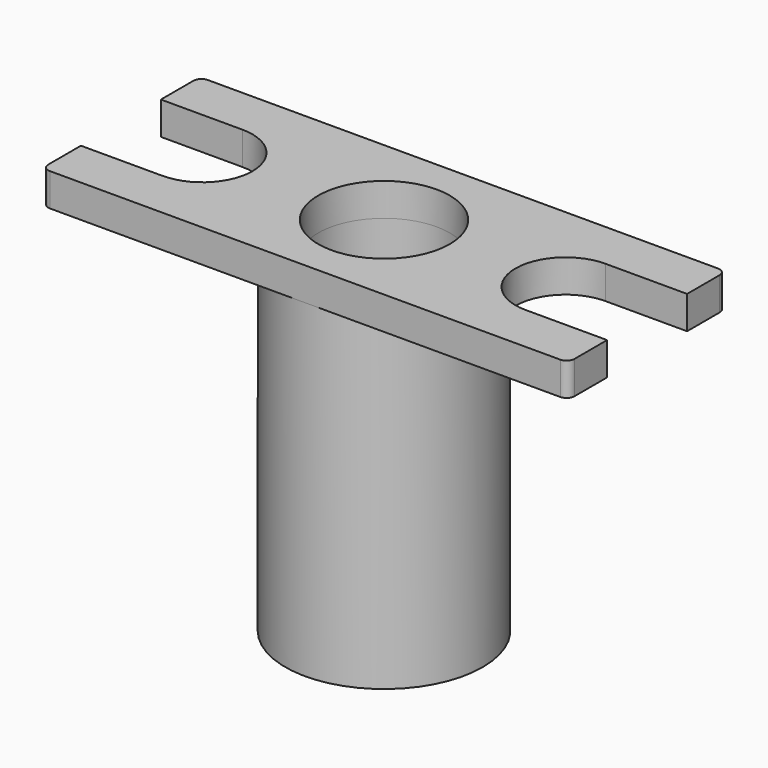
from build123d import *

# Parameters (mm, degrees)
F0_R     = 12.7
F1_DEPTH = 6.35
F2_R     = 19.05
F2_R_2   = 12.7
F3_DEPTH = 57.15
F4_R     = 19.05
F4_R_2   = 4.7625
F5_DEPTH = 6.35
F6_R     = 1.524


with BuildPart() as f1:
    # F0 (on Top) → F1 (new body)
    with BuildSketch(Plane.XY):
        with BuildLine():
            Line((-50.8, -9.652), (-50.8, -19.05))
            Line((-50.8, -19.05), (50.8, -19.05))
            Line((50.8, -19.05), (50.8, -9.652))
            Line((50.8, -9.652), (35.052, -9.652))
            ThreePointArc((35.052, -9.652), (25.4, 0), (35.052, 9.652))
            Line((35.052, 9.652), (50.8, 9.652))
            Line((50.8, 9.652), (50.8, 19.05))
            Line((50.8, 19.05), (-50.8, 19.05))
            Line((-50.8, 19.05), (-50.8, 9.652))
            Line((-50.8, 9.652), (-35.052, 9.652))
            ThreePointArc((-35.052, 9.652), (-25.4, 0), (-35.052, -9.652))
            Line((-35.052, -9.652), (-50.8, -9.652))
        make_face()
        Circle(F0_R, mode=Mode.SUBTRACT)
    extrude(amount=-F1_DEPTH)

    # F2 (on face) → F3 (join)
    with BuildSketch(Plane(origin=(0, 0, -6.35), x_dir=(1, 0, 0), z_dir=(0, 0, -1))):
        Circle(F2_R)
        Circle(F2_R_2, mode=Mode.SUBTRACT)
    extrude(amount=F3_DEPTH)

    # F4 (on face) → F5 (join)
    with BuildSketch(Plane(origin=(0, 0, -63.5), x_dir=(1, 0, 0), z_dir=(0, 0, -1))):
        Circle(F4_R)
        Circle(F4_R_2, mode=Mode.SUBTRACT)
    extrude(amount=F5_DEPTH)

    # F6
    f6_edges = [f1.edges().sort_by_distance(p)[0] for p in [
        (-50.8, -19.05, -3.175),
        (50.8, -19.05, -3.175),
        (50.8, 19.05, -3.175),
        (-50.8, 19.05, -3.175),
    ]]
    fillet(f6_edges, radius=F6_R)


solid = f1.part
